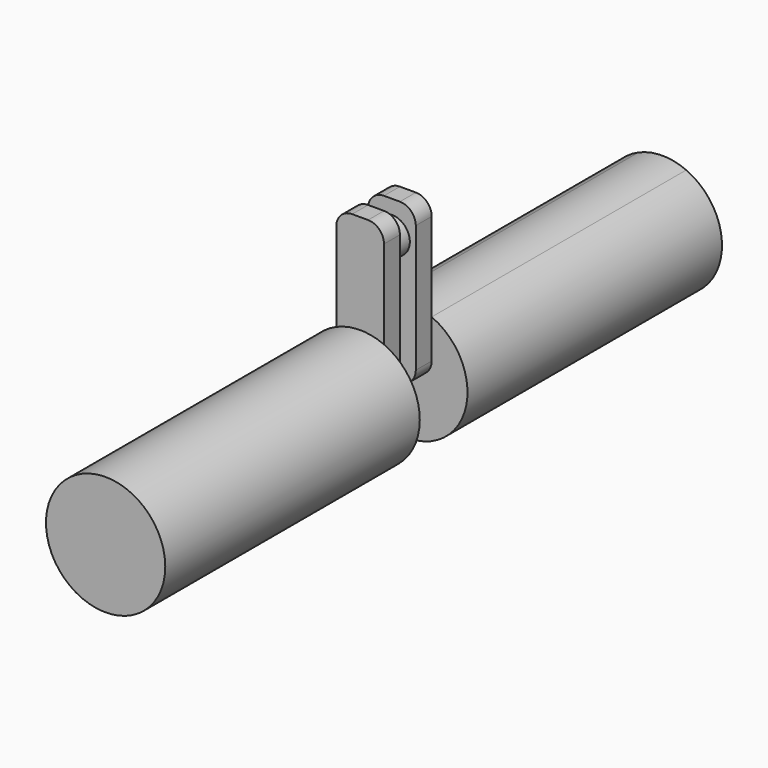
from build123d import *

# Parameters (mm, degrees)
F0_R      = 7.5
F1_DEPTH  = 40
F3_DEPTH  = 2.5
F4_R      = 2
F5_R      = 2.25
F6_DEPTH  = 2.5
F7_W      = 6
F7_H      = 20
F7_R      = 2.25
F8_DEPTH  = 2.5
F9_R      = 2
F11_DEPTH = 40


with BuildPart() as f1:
    # F0 (on Front) → F1 (new body)
    with BuildSketch(Plane.XZ):
        Circle(F0_R)
    extrude(amount=F1_DEPTH)

    # F2 (on face) → F3 (join)
    with BuildSketch(Plane(origin=(0, 0, 0), x_dir=(-1, 0, 0), z_dir=(0, 1, 0))):
        with BuildLine():
            Line((3, 20), (-3, 20))
            Line((-3, 20), (-3, 6.873864))
            ThreePointArc((-3, 6.873864), (0, 7.5), (3, 6.873864))
            Line((3, 6.873864), (3, 20))
        make_face()
        with BuildLine():
            ThreePointArc((3, 6.873864), (0, 7.5), (-3, 6.873864))
            Line((-3, 6.873864), (-3, 0))
            Line((-3, 0), (3, 0))
            Line((3, 0), (3, 6.873864))
        make_face()
    extrude(amount=F3_DEPTH)

    # F4
    f4_edges = [f1.edges().sort_by_distance(p)[0] for p in [
        (3, 1.25, 20),
        (-3, 1.25, 20),
        (3, 1.25, 0),
        (-3, 1.25, 0),
    ]]
    fillet(f4_edges, radius=F4_R)

    # F5 (on face) → F6 (join)
    with BuildSketch(Plane(origin=(0, 2.5, 0), x_dir=(-1, 0, 0), z_dir=(0, 1, 0))):
        with Locations((0, 15.968132)):
            Circle(F5_R)
    extrude(amount=F6_DEPTH)

    # F7 (on face) → F8 (join)
    with BuildSketch(Plane(origin=(0, 5, 0), x_dir=(-1, 0, 0), z_dir=(0, 1, 0))):
        with Locations((0, 10)):
            Rectangle(F7_W, F7_H)
        with Locations((0, 15.968132)):
            Circle(F7_R, mode=Mode.SUBTRACT)
        with Locations((0, 15.968132)):
            Circle(F7_R)
    extrude(amount=F8_DEPTH)

    # F9
    f9_edges = [f1.edges().sort_by_distance(p)[0] for p in [
        (3, 6.25, 20),
        (-3, 6.25, 20),
        (3, 6.25, 0),
        (-3, 6.25, 0),
    ]]
    fillet(f9_edges, radius=F9_R)

    # F10 (on face) → F11 (join)
    with BuildSketch(Plane(origin=(0, 7.5, 0), x_dir=(-1, 0, 0), z_dir=(0, 1, 0))):
        with BuildLine():
            Line((3, 2), (3, 6.873864))
            ThreePointArc((3, 6.873864), (0, 7.5), (-3, 6.873864))
            Line((-3, 6.873864), (-3, 2))
            ThreePointArc((-3, 2), (-2.414214, 0.585786), (-1, 0))
            Line((-1, 0), (1, 0))
            ThreePointArc((1, 0), (2.414214, 0.585786), (3, 2))
        make_face()
        with BuildLine():
            ThreePointArc((-3, 6.873864), (-4.107919, -6.27495), (7.5, 0))
            ThreePointArc((7.5, 0), (6.27495, 4.107919), (3, 6.873864))
            Line((3, 6.873864), (3, 2))
            ThreePointArc((3, 2), (2.414214, 0.585786), (1, 0))
            Line((1, 0), (-1, 0))
            ThreePointArc((-1, 0), (-2.414214, 0.585786), (-3, 2))
            Line((-3, 2), (-3, 6.873864))
        make_face()
    extrude(amount=F11_DEPTH)


solid = f1.part
